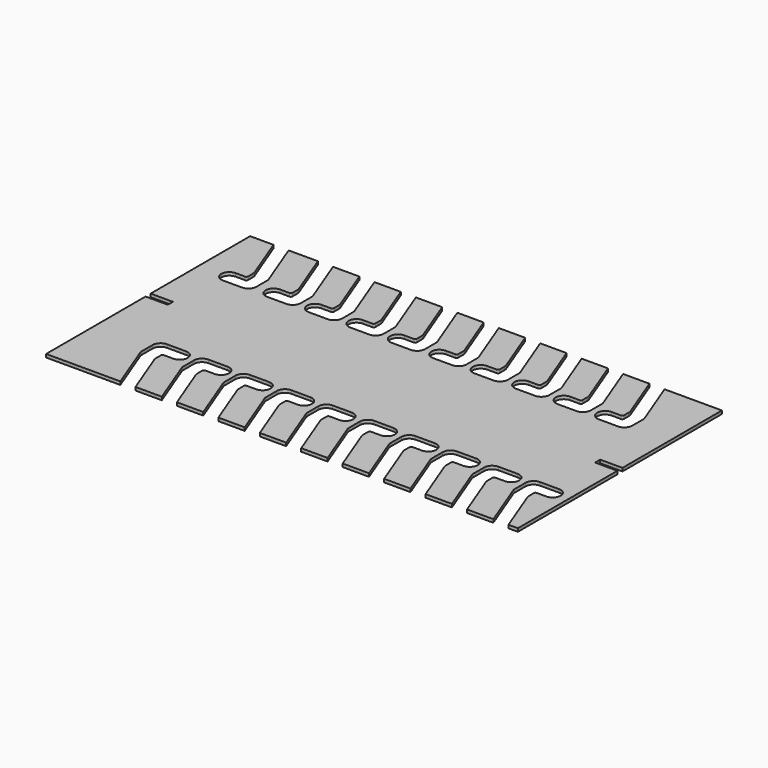
from build123d import *

# Parameters (mm, degrees)
F1_DEPTH = 6.35
F3_DEPTH = 25.4


with BuildPart() as f1:
    # F0 (on Top) → F1 (new body)
    with BuildSketch(Plane.XY):
        Polygon((-939.8, 0), (0, 0), (0, 247.65), (-44.45, 247.65), (-44.45, 260.35), (0, 260.35), (0, 508), (-939.8, 508), (-939.8, 260.35), (-895.35, 260.35), (-895.35, 247.65), (-939.8, 247.65), align=None)
    extrude(amount=-F1_DEPTH)

    # F2 (on face) → F3 (cut)
    with BuildSketch(Plane.XY):
        with BuildLine():
            Line((-828.290422, 417.257983), (-863.123019, 508))
            Line((-863.123019, 508), (-893.199878, 508))
            Line((-893.199878, 508), (-858.367281, 417.257983))
            ThreePointArc((-858.367281, 417.257983), (-857.736415, 415.021101), (-857.523752, 412.70671))
            Line((-857.523752, 412.70671), (-857.523752, 400.00671))
            ThreePointArc((-857.523752, 400.00671), (-858.433516, 397.782), (-860.641441, 396.832227))
            ThreePointArc((-860.641441, 396.832227), (-860.698752, 396.83171), (-860.756063, 396.832227))
            Line((-860.756063, 396.832227), (-879.691441, 396.832227))
            ThreePointArc((-879.691441, 396.832227), (-895.566441, 380.957227), (-879.691441, 365.082227))
            Line((-879.691441, 365.082227), (-841.591441, 365.082227))
            ThreePointArc((-841.591441, 365.082227), (-830.366121, 369.731907), (-825.716441, 380.957227))
            Line((-825.716441, 380.957227), (-825.716441, 408.198727))
            ThreePointArc((-825.716441, 408.198727), (-825.929104, 410.513118), (-826.55997, 412.75))
            Line((-826.55997, 412.75), (-828.290422, 417.257983))
        make_face()
        with BuildLine():
            Line((-738.136951, 412.75), (-774.7, 508))
            Line((-774.7, 508), (-804.776859, 508))
            Line((-804.776859, 508), (-769.944262, 417.257983))
            ThreePointArc((-769.944262, 417.257983), (-769.313396, 415.021101), (-769.100733, 412.70671))
            Line((-769.100733, 412.70671), (-769.100733, 400.00671))
            ThreePointArc((-769.100733, 400.00671), (-770.010497, 397.782), (-772.218422, 396.832227))
            ThreePointArc((-772.218422, 396.832227), (-772.275733, 396.83171), (-772.333044, 396.832227))
            Line((-772.333044, 396.832227), (-791.268422, 396.832227))
            ThreePointArc((-791.268422, 396.832227), (-807.143422, 380.957227), (-791.268422, 365.082227))
            Line((-791.268422, 365.082227), (-753.168422, 365.082227))
            ThreePointArc((-753.168422, 365.082227), (-741.943102, 369.731907), (-737.293422, 380.957227))
            Line((-737.293422, 380.957227), (-737.293422, 408.198727))
            ThreePointArc((-737.293422, 408.198727), (-737.506085, 410.513118), (-738.136951, 412.75))
        make_face()
        with BuildLine():
            Line((-114.3, 508), (-144.376859, 508))
            Line((-144.376859, 508), (-109.544262, 417.257983))
            ThreePointArc((-109.544262, 417.257983), (-108.913396, 415.021101), (-108.700733, 412.70671))
            Line((-108.700733, 412.70671), (-108.700733, 400.00671))
            ThreePointArc((-108.700733, 400.00671), (-109.610497, 397.782), (-111.818422, 396.832227))
            ThreePointArc((-111.818422, 396.832227), (-111.875733, 396.83171), (-111.933044, 396.832227))
            Line((-111.933044, 396.832227), (-130.868422, 396.832227))
            ThreePointArc((-130.868422, 396.832227), (-146.743422, 380.957227), (-130.868422, 365.082227))
            Line((-130.868422, 365.082227), (-92.768422, 365.082227))
            ThreePointArc((-92.768422, 365.082227), (-81.543102, 369.731907), (-76.893422, 380.957227))
            Line((-76.893422, 380.957227), (-76.893422, 408.198727))
            ThreePointArc((-76.893422, 408.198727), (-77.106085, 410.513118), (-77.736951, 412.75))
            Line((-77.736951, 412.75), (-114.3, 508))
        make_face()
        with BuildLine():
            Line((-196.85, 508), (-226.926859, 508))
            Line((-226.926859, 508), (-192.094262, 417.257983))
            ThreePointArc((-192.094262, 417.257983), (-191.463396, 415.021101), (-191.250733, 412.70671))
            Line((-191.250733, 412.70671), (-191.250733, 400.00671))
            ThreePointArc((-191.250733, 400.00671), (-192.160497, 397.782), (-194.368422, 396.832227))
            ThreePointArc((-194.368422, 396.832227), (-194.425733, 396.83171), (-194.483044, 396.832227))
            Line((-194.483044, 396.832227), (-213.418422, 396.832227))
            ThreePointArc((-213.418422, 396.832227), (-229.293422, 380.957227), (-213.418422, 365.082227))
            Line((-213.418422, 365.082227), (-175.318422, 365.082227))
            ThreePointArc((-175.318422, 365.082227), (-164.093102, 369.731907), (-159.443422, 380.957227))
            Line((-159.443422, 380.957227), (-159.443422, 408.198727))
            ThreePointArc((-159.443422, 408.198727), (-159.656085, 410.513118), (-160.286951, 412.75))
            Line((-160.286951, 412.75), (-196.85, 508))
        make_face()
        with BuildLine():
            Line((-279.4, 508), (-309.476859, 508))
            Line((-309.476859, 508), (-274.644262, 417.257983))
            ThreePointArc((-274.644262, 417.257983), (-274.013396, 415.021101), (-273.800733, 412.70671))
            Line((-273.800733, 412.70671), (-273.800733, 400.00671))
            ThreePointArc((-273.800733, 400.00671), (-274.710497, 397.782), (-276.918422, 396.832227))
            ThreePointArc((-276.918422, 396.832227), (-276.975733, 396.83171), (-277.033044, 396.832227))
            Line((-277.033044, 396.832227), (-295.968422, 396.832227))
            ThreePointArc((-295.968422, 396.832227), (-311.843422, 380.957227), (-295.968422, 365.082227))
            Line((-295.968422, 365.082227), (-257.868422, 365.082227))
            ThreePointArc((-257.868422, 365.082227), (-246.643102, 369.731907), (-241.993422, 380.957227))
            Line((-241.993422, 380.957227), (-241.993422, 408.198727))
            ThreePointArc((-241.993422, 408.198727), (-242.206085, 410.513118), (-242.836951, 412.75))
            Line((-242.836951, 412.75), (-279.4, 508))
        make_face()
        with BuildLine():
            Line((-361.95, 508), (-392.026859, 508))
            Line((-392.026859, 508), (-357.194262, 417.257983))
            ThreePointArc((-357.194262, 417.257983), (-356.563396, 415.021101), (-356.350733, 412.70671))
            Line((-356.350733, 412.70671), (-356.350733, 400.00671))
            ThreePointArc((-356.350733, 400.00671), (-357.260497, 397.782), (-359.468422, 396.832227))
            ThreePointArc((-359.468422, 396.832227), (-359.525733, 396.83171), (-359.583044, 396.832227))
            Line((-359.583044, 396.832227), (-378.518422, 396.832227))
            ThreePointArc((-378.518422, 396.832227), (-394.393422, 380.957227), (-378.518422, 365.082227))
            Line((-378.518422, 365.082227), (-340.418422, 365.082227))
            ThreePointArc((-340.418422, 365.082227), (-329.193102, 369.731907), (-324.543422, 380.957227))
            Line((-324.543422, 380.957227), (-324.543422, 408.198727))
            ThreePointArc((-324.543422, 408.198727), (-324.756085, 410.513118), (-325.386951, 412.75))
            Line((-325.386951, 412.75), (-361.95, 508))
        make_face()
        with BuildLine():
            Line((-444.5, 508), (-474.576859, 508))
            Line((-474.576859, 508), (-439.744262, 417.257983))
            ThreePointArc((-439.744262, 417.257983), (-439.113396, 415.021101), (-438.900733, 412.70671))
            Line((-438.900733, 412.70671), (-438.900733, 400.00671))
            ThreePointArc((-438.900733, 400.00671), (-439.810497, 397.782), (-442.018422, 396.832227))
            ThreePointArc((-442.018422, 396.832227), (-442.075733, 396.83171), (-442.133044, 396.832227))
            Line((-442.133044, 396.832227), (-461.068422, 396.832227))
            ThreePointArc((-461.068422, 396.832227), (-476.943422, 380.957227), (-461.068422, 365.082227))
            Line((-461.068422, 365.082227), (-422.968422, 365.082227))
            ThreePointArc((-422.968422, 365.082227), (-411.743102, 369.731907), (-407.093422, 380.957227))
            Line((-407.093422, 380.957227), (-407.093422, 408.198727))
            ThreePointArc((-407.093422, 408.198727), (-407.306085, 410.513118), (-407.936951, 412.75))
            Line((-407.936951, 412.75), (-444.5, 508))
        make_face()
        with BuildLine():
            Line((-527.05, 508), (-557.126859, 508))
            Line((-557.126859, 508), (-522.294262, 417.257983))
            ThreePointArc((-522.294262, 417.257983), (-521.663396, 415.021101), (-521.450733, 412.70671))
            Line((-521.450733, 412.70671), (-521.450733, 400.00671))
            ThreePointArc((-521.450733, 400.00671), (-522.360497, 397.782), (-524.568422, 396.832227))
            ThreePointArc((-524.568422, 396.832227), (-524.625733, 396.83171), (-524.683044, 396.832227))
            Line((-524.683044, 396.832227), (-543.618422, 396.832227))
            ThreePointArc((-543.618422, 396.832227), (-559.493422, 380.957227), (-543.618422, 365.082227))
            Line((-543.618422, 365.082227), (-505.518422, 365.082227))
            ThreePointArc((-505.518422, 365.082227), (-494.293102, 369.731907), (-489.643422, 380.957227))
            Line((-489.643422, 380.957227), (-489.643422, 408.198727))
            ThreePointArc((-489.643422, 408.198727), (-489.856085, 410.513118), (-490.486951, 412.75))
            Line((-490.486951, 412.75), (-527.05, 508))
        make_face()
        with BuildLine():
            Line((-609.6, 508), (-639.676859, 508))
            Line((-639.676859, 508), (-604.844262, 417.257983))
            ThreePointArc((-604.844262, 417.257983), (-604.213396, 415.021101), (-604.000733, 412.70671))
            Line((-604.000733, 412.70671), (-604.000733, 400.00671))
            ThreePointArc((-604.000733, 400.00671), (-604.910497, 397.782), (-607.118422, 396.832227))
            ThreePointArc((-607.118422, 396.832227), (-607.175733, 396.83171), (-607.233044, 396.832227))
            Line((-607.233044, 396.832227), (-626.168422, 396.832227))
            ThreePointArc((-626.168422, 396.832227), (-642.043422, 380.957227), (-626.168422, 365.082227))
            Line((-626.168422, 365.082227), (-588.068422, 365.082227))
            ThreePointArc((-588.068422, 365.082227), (-576.843102, 369.731907), (-572.193422, 380.957227))
            Line((-572.193422, 380.957227), (-572.193422, 408.198727))
            ThreePointArc((-572.193422, 408.198727), (-572.406085, 410.513118), (-573.036951, 412.75))
            Line((-573.036951, 412.75), (-609.6, 508))
        make_face()
        with BuildLine():
            Line((-692.15, 508), (-722.226859, 508))
            Line((-722.226859, 508), (-687.394262, 417.257983))
            ThreePointArc((-687.394262, 417.257983), (-686.763396, 415.021101), (-686.550733, 412.70671))
            Line((-686.550733, 412.70671), (-686.550733, 400.00671))
            ThreePointArc((-686.550733, 400.00671), (-687.460497, 397.782), (-689.668422, 396.832227))
            ThreePointArc((-689.668422, 396.832227), (-689.725733, 396.83171), (-689.783044, 396.832227))
            Line((-689.783044, 396.832227), (-708.718422, 396.832227))
            ThreePointArc((-708.718422, 396.832227), (-724.593422, 380.957227), (-708.718422, 365.082227))
            Line((-708.718422, 365.082227), (-670.618422, 365.082227))
            ThreePointArc((-670.618422, 365.082227), (-659.393102, 369.731907), (-654.743422, 380.957227))
            Line((-654.743422, 380.957227), (-654.743422, 408.198727))
            ThreePointArc((-654.743422, 408.198727), (-654.956085, 410.513118), (-655.586951, 412.75))
            Line((-655.586951, 412.75), (-692.15, 508))
        make_face()
        with BuildLine():
            ThreePointArc((-772.333044, 396.832227), (-772.275733, 396.83171), (-772.218422, 396.832227))
            Line((-772.218422, 396.832227), (-772.333044, 396.832227))
        make_face()
        with BuildLine():
            ThreePointArc((-689.783044, 396.832227), (-689.725733, 396.83171), (-689.668422, 396.832227))
            Line((-689.668422, 396.832227), (-689.783044, 396.832227))
        make_face()
        with BuildLine():
            ThreePointArc((-607.233044, 396.832227), (-607.175733, 396.83171), (-607.118422, 396.832227))
            Line((-607.118422, 396.832227), (-607.233044, 396.832227))
        make_face()
        with BuildLine():
            ThreePointArc((-860.756063, 396.832227), (-860.698752, 396.83171), (-860.641441, 396.832227))
            Line((-860.641441, 396.832227), (-860.756063, 396.832227))
        make_face()
        with BuildLine():
            ThreePointArc((-524.683044, 396.832227), (-524.625733, 396.83171), (-524.568422, 396.832227))
            Line((-524.568422, 396.832227), (-524.683044, 396.832227))
        make_face()
        with BuildLine():
            ThreePointArc((-442.133044, 396.832227), (-442.075733, 396.83171), (-442.018422, 396.832227))
            Line((-442.018422, 396.832227), (-442.133044, 396.832227))
        make_face()
        with BuildLine():
            ThreePointArc((-359.583044, 396.832227), (-359.525733, 396.83171), (-359.468422, 396.832227))
            Line((-359.468422, 396.832227), (-359.583044, 396.832227))
        make_face()
        with BuildLine():
            ThreePointArc((-277.033044, 396.832227), (-276.975733, 396.83171), (-276.918422, 396.832227))
            Line((-276.918422, 396.832227), (-277.033044, 396.832227))
        make_face()
        with BuildLine():
            ThreePointArc((-194.483044, 396.832227), (-194.425733, 396.83171), (-194.368422, 396.832227))
            Line((-194.368422, 396.832227), (-194.483044, 396.832227))
        make_face()
        with BuildLine():
            ThreePointArc((-111.933044, 396.832227), (-111.875733, 396.83171), (-111.818422, 396.832227))
            Line((-111.818422, 396.832227), (-111.933044, 396.832227))
        make_face()
        with BuildLine():
            Line((-216.470748, 111.167773), (-216.356126, 111.167773))
            ThreePointArc((-216.356126, 111.167773), (-216.413437, 111.16829), (-216.470748, 111.167773))
        make_face()
        with BuildLine():
            Line((-828.40222, 95.25), (-791.83917, 0))
            Line((-791.83917, 0), (-761.762312, 0))
            Line((-761.762312, 0), (-796.594909, 90.742017))
            ThreePointArc((-796.594909, 90.742017), (-797.225775, 92.978899), (-797.438437, 95.29329))
            Line((-797.438437, 95.29329), (-797.438437, 107.99329))
            ThreePointArc((-797.438437, 107.99329), (-796.528673, 110.218), (-794.320748, 111.167773))
            Line((-794.320748, 111.167773), (-775.270748, 111.167773))
            ThreePointArc((-775.270748, 111.167773), (-759.395748, 127.042773), (-775.270748, 142.917773))
            Line((-775.270748, 142.917773), (-813.370748, 142.917773))
            ThreePointArc((-813.370748, 142.917773), (-824.596068, 138.268093), (-829.245748, 127.042773))
            Line((-829.245748, 127.042773), (-829.245748, 99.801273))
            ThreePointArc((-829.245748, 99.801273), (-829.033086, 97.486882), (-828.40222, 95.25))
        make_face()
        with BuildLine():
            Line((-745.85222, 95.25), (-709.28917, 0))
            Line((-709.28917, 0), (-679.212312, 0))
            Line((-679.212312, 0), (-714.044909, 90.742017))
            ThreePointArc((-714.044909, 90.742017), (-714.675775, 92.978899), (-714.888437, 95.29329))
            Line((-714.888437, 95.29329), (-714.888437, 107.99329))
            ThreePointArc((-714.888437, 107.99329), (-713.978673, 110.218), (-711.770748, 111.167773))
            Line((-711.770748, 111.167773), (-692.720748, 111.167773))
            ThreePointArc((-692.720748, 111.167773), (-676.845748, 127.042773), (-692.720748, 142.917773))
            Line((-692.720748, 142.917773), (-730.820748, 142.917773))
            ThreePointArc((-730.820748, 142.917773), (-742.046068, 138.268093), (-746.695748, 127.042773))
            Line((-746.695748, 127.042773), (-746.695748, 99.801273))
            ThreePointArc((-746.695748, 99.801273), (-746.483086, 97.486882), (-745.85222, 95.25))
        make_face()
        with BuildLine():
            Line((-663.30222, 95.25), (-626.73917, 0))
            Line((-626.73917, 0), (-596.662312, 0))
            Line((-596.662312, 0), (-631.494909, 90.742017))
            ThreePointArc((-631.494909, 90.742017), (-632.125775, 92.978899), (-632.338437, 95.29329))
            Line((-632.338437, 95.29329), (-632.338437, 107.99329))
            ThreePointArc((-632.338437, 107.99329), (-631.428673, 110.218), (-629.220748, 111.167773))
            Line((-629.220748, 111.167773), (-610.170748, 111.167773))
            ThreePointArc((-610.170748, 111.167773), (-594.295748, 127.042773), (-610.170748, 142.917773))
            Line((-610.170748, 142.917773), (-648.270748, 142.917773))
            ThreePointArc((-648.270748, 142.917773), (-659.496068, 138.268093), (-664.145748, 127.042773))
            Line((-664.145748, 127.042773), (-664.145748, 99.801273))
            ThreePointArc((-664.145748, 99.801273), (-663.933086, 97.486882), (-663.30222, 95.25))
        make_face()
        with BuildLine():
            Line((-580.75222, 95.25), (-544.18917, 0))
            Line((-544.18917, 0), (-514.112312, 0))
            Line((-514.112312, 0), (-548.944909, 90.742017))
            ThreePointArc((-548.944909, 90.742017), (-549.575775, 92.978899), (-549.788437, 95.29329))
            Line((-549.788437, 95.29329), (-549.788437, 107.99329))
            ThreePointArc((-549.788437, 107.99329), (-548.878673, 110.218), (-546.670748, 111.167773))
            Line((-546.670748, 111.167773), (-527.620748, 111.167773))
            ThreePointArc((-527.620748, 111.167773), (-511.745748, 127.042773), (-527.620748, 142.917773))
            Line((-527.620748, 142.917773), (-565.720748, 142.917773))
            ThreePointArc((-565.720748, 142.917773), (-576.946068, 138.268093), (-581.595748, 127.042773))
            Line((-581.595748, 127.042773), (-581.595748, 99.801273))
            ThreePointArc((-581.595748, 99.801273), (-581.383086, 97.486882), (-580.75222, 95.25))
        make_face()
        with BuildLine():
            Line((-498.20222, 95.25), (-461.63917, 0))
            Line((-461.63917, 0), (-431.562312, 0))
            Line((-431.562312, 0), (-466.394909, 90.742017))
            ThreePointArc((-466.394909, 90.742017), (-467.025775, 92.978899), (-467.238437, 95.29329))
            Line((-467.238437, 95.29329), (-467.238437, 107.99329))
            ThreePointArc((-467.238437, 107.99329), (-466.328673, 110.218), (-464.120748, 111.167773))
            Line((-464.120748, 111.167773), (-445.070748, 111.167773))
            ThreePointArc((-445.070748, 111.167773), (-429.195748, 127.042773), (-445.070748, 142.917773))
            Line((-445.070748, 142.917773), (-483.170748, 142.917773))
            ThreePointArc((-483.170748, 142.917773), (-494.396068, 138.268093), (-499.045748, 127.042773))
            Line((-499.045748, 127.042773), (-499.045748, 99.801273))
            ThreePointArc((-499.045748, 99.801273), (-498.833086, 97.486882), (-498.20222, 95.25))
        make_face()
        with BuildLine():
            Line((-415.65222, 95.25), (-379.08917, 0))
            Line((-379.08917, 0), (-349.012312, 0))
            Line((-349.012312, 0), (-383.844909, 90.742017))
            ThreePointArc((-383.844909, 90.742017), (-384.475775, 92.978899), (-384.688437, 95.29329))
            Line((-384.688437, 95.29329), (-384.688437, 107.99329))
            ThreePointArc((-384.688437, 107.99329), (-383.778673, 110.218), (-381.570748, 111.167773))
            Line((-381.570748, 111.167773), (-362.520748, 111.167773))
            ThreePointArc((-362.520748, 111.167773), (-346.645748, 127.042773), (-362.520748, 142.917773))
            Line((-362.520748, 142.917773), (-400.620748, 142.917773))
            ThreePointArc((-400.620748, 142.917773), (-411.846068, 138.268093), (-416.495748, 127.042773))
            Line((-416.495748, 127.042773), (-416.495748, 99.801273))
            ThreePointArc((-416.495748, 99.801273), (-416.283086, 97.486882), (-415.65222, 95.25))
        make_face()
        with BuildLine():
            Line((-333.10222, 95.25), (-296.53917, 0))
            Line((-296.53917, 0), (-266.462312, 0))
            Line((-266.462312, 0), (-301.294909, 90.742017))
            ThreePointArc((-301.294909, 90.742017), (-301.925775, 92.978899), (-302.138437, 95.29329))
            Line((-302.138437, 95.29329), (-302.138437, 107.99329))
            ThreePointArc((-302.138437, 107.99329), (-301.228673, 110.218), (-299.020748, 111.167773))
            Line((-299.020748, 111.167773), (-279.970748, 111.167773))
            ThreePointArc((-279.970748, 111.167773), (-264.095748, 127.042773), (-279.970748, 142.917773))
            Line((-279.970748, 142.917773), (-318.070748, 142.917773))
            ThreePointArc((-318.070748, 142.917773), (-329.296068, 138.268093), (-333.945748, 127.042773))
            Line((-333.945748, 127.042773), (-333.945748, 99.801273))
            ThreePointArc((-333.945748, 99.801273), (-333.733086, 97.486882), (-333.10222, 95.25))
        make_face()
        with BuildLine():
            Line((-250.55222, 95.25), (-213.98917, 0))
            Line((-213.98917, 0), (-183.912312, 0))
            Line((-183.912312, 0), (-218.744909, 90.742017))
            ThreePointArc((-218.744909, 90.742017), (-219.375775, 92.978899), (-219.588437, 95.29329))
            Line((-219.588437, 95.29329), (-219.588437, 107.99329))
            ThreePointArc((-219.588437, 107.99329), (-218.678673, 110.218), (-216.470748, 111.167773))
            ThreePointArc((-216.470748, 111.167773), (-216.413437, 111.16829), (-216.356126, 111.167773))
            Line((-216.356126, 111.167773), (-197.420748, 111.167773))
            ThreePointArc((-197.420748, 111.167773), (-181.545748, 127.042773), (-197.420748, 142.917773))
            Line((-197.420748, 142.917773), (-235.520748, 142.917773))
            ThreePointArc((-235.520748, 142.917773), (-246.746068, 138.268093), (-251.395748, 127.042773))
            Line((-251.395748, 127.042773), (-251.395748, 99.801273))
            ThreePointArc((-251.395748, 99.801273), (-251.183086, 97.486882), (-250.55222, 95.25))
        make_face()
        with BuildLine():
            Line((-131.43917, 0), (-101.362312, 0))
            Line((-101.362312, 0), (-136.194909, 90.742017))
            ThreePointArc((-136.194909, 90.742017), (-136.825775, 92.978899), (-137.038437, 95.29329))
            Line((-137.038437, 95.29329), (-137.038437, 107.99329))
            ThreePointArc((-137.038437, 107.99329), (-136.128673, 110.218), (-133.920748, 111.167773))
            Line((-133.920748, 111.167773), (-114.870748, 111.167773))
            ThreePointArc((-114.870748, 111.167773), (-98.995748, 127.042773), (-114.870748, 142.917773))
            Line((-114.870748, 142.917773), (-152.970748, 142.917773))
            ThreePointArc((-152.970748, 142.917773), (-164.196068, 138.268093), (-168.845748, 127.042773))
            Line((-168.845748, 127.042773), (-168.845748, 99.801273))
            ThreePointArc((-168.845748, 99.801273), (-168.633086, 97.486882), (-168.00222, 95.25))
            Line((-168.00222, 95.25), (-131.43917, 0))
        make_face()
        with BuildLine():
            Line((-48.88917, 0), (-18.812312, 0))
            Line((-18.812312, 0), (-53.644909, 90.742017))
            ThreePointArc((-53.644909, 90.742017), (-54.275775, 92.978899), (-54.488437, 95.29329))
            Line((-54.488437, 95.29329), (-54.488437, 107.99329))
            ThreePointArc((-54.488437, 107.99329), (-53.578673, 110.218), (-51.370748, 111.167773))
            Line((-51.370748, 111.167773), (-32.320748, 111.167773))
            ThreePointArc((-32.320748, 111.167773), (-16.445748, 127.042773), (-32.320748, 142.917773))
            Line((-32.320748, 142.917773), (-70.420748, 142.917773))
            ThreePointArc((-70.420748, 142.917773), (-81.646068, 138.268093), (-86.295748, 127.042773))
            Line((-86.295748, 127.042773), (-86.295748, 99.801273))
            ThreePointArc((-86.295748, 99.801273), (-86.083086, 97.486882), (-85.45222, 95.25))
            Line((-85.45222, 95.25), (-48.88917, 0))
        make_face()
    extrude(amount=-F3_DEPTH, mode=Mode.SUBTRACT)


solid = f1.part
